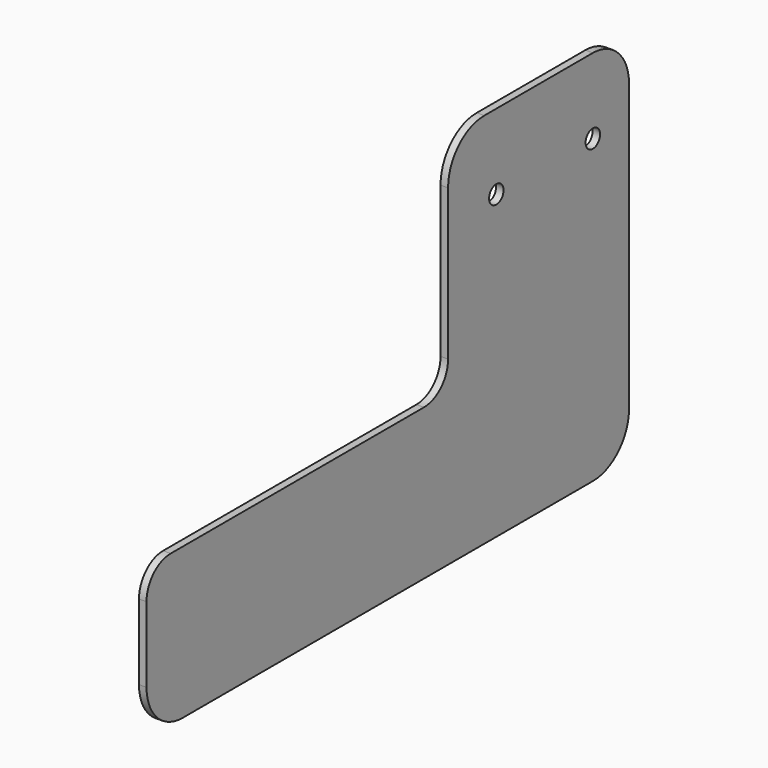
from build123d import *

# Parameters (mm, degrees)
F1_DEPTH = 120
F2_R     = 6
F3_DEPTH = 5
F4_R     = 6
F5_DEPTH = 5


with BuildPart() as f1:
    # F0 (on Top) → F1 (new body)
    with BuildSketch(Plane.XY):
        with BuildLine():
            Line((120.464271, 36.765282), (-39.183099, 36.765282))
            ThreePointArc((-39.183099, 36.765282), (-50.372007, 32.173501), (-54.535729, 20.818346))
            Line((-54.535729, 20.818346), (-54.535729, -83.234718))
            Line((-54.535729, -83.234718), (-49.535177, -83.234718))
            Line((-49.535177, -83.234718), (-49.536819, 10.563834))
            Line((-49.536819, 10.563834), (-49.537028, 22.530258))
            ThreePointArc((-49.537028, 22.530258), (-46.279821, 29.181243), (-39.340395, 31.767623))
            Line((-39.340395, 31.767623), (-28.383342, 31.767623))
            Line((-28.383342, 31.767623), (120.464271, 31.767623))
            Line((120.464271, 31.767623), (120.464271, 36.765282))
        make_face()
    extrude(amount=F1_DEPTH)

    # F2 (on face) → F3 (cut)
    with BuildSketch(Plane(origin=(0, 36.765282, 0), x_dir=(-1, 0, 0), z_dir=(0, 1, 0))):
        with Locations((-70.464271, 60)):
            Circle(F2_R)
        with Locations((-20.464271, 60)):
            Circle(F2_R)
    extrude(amount=-F3_DEPTH, mode=Mode.SUBTRACT)


with BuildPart() as f5:
    # F4 (on face) → F5 (new body)
    with BuildSketch(Plane(origin=(-49.536634, -0.000867, 0), x_dir=(-1.8e-05, 1, 0), z_dir=(1, 1.8e-05, 0))):
        with BuildLine():
            Line((-347.468874, 160.679807), (-7.468874, 160.679807))
            ThreePointArc((-7.468874, 160.679807), (13.744329, 169.466604), (22.531126, 190.679807))
            Line((22.531126, 190.679807), (22.531126, 380.679807))
            ThreePointArc((22.531126, 380.679807), (13.744329, 401.893011), (-7.468874, 410.679807))
            Line((-7.468874, 410.679807), (-97.468874, 410.679807))
            ThreePointArc((-97.468874, 410.679807), (-118.682078, 401.893011), (-127.468874, 380.679807))
            Line((-127.468874, 380.679807), (-127.468874, 280.679807))
            ThreePointArc((-127.468874, 280.679807), (-133.326739, 266.537672), (-147.468874, 260.679807))
            Line((-147.468874, 260.679807), (-357.468874, 260.679807))
            ThreePointArc((-357.468874, 260.679807), (-371.61101, 254.821943), (-377.468874, 240.679807))
            Line((-377.468874, 240.679807), (-377.468874, 190.679807))
            ThreePointArc((-377.468874, 190.679807), (-368.682078, 169.466604), (-347.468874, 160.679807))
        make_face()
        with Locations((-87.468874, 360.679807)):
            Circle(F4_R, mode=Mode.SUBTRACT)
        with Locations((-7.468874, 360.679807)):
            Circle(F4_R, mode=Mode.SUBTRACT)
    extrude(amount=F5_DEPTH)


solid = f5.part
